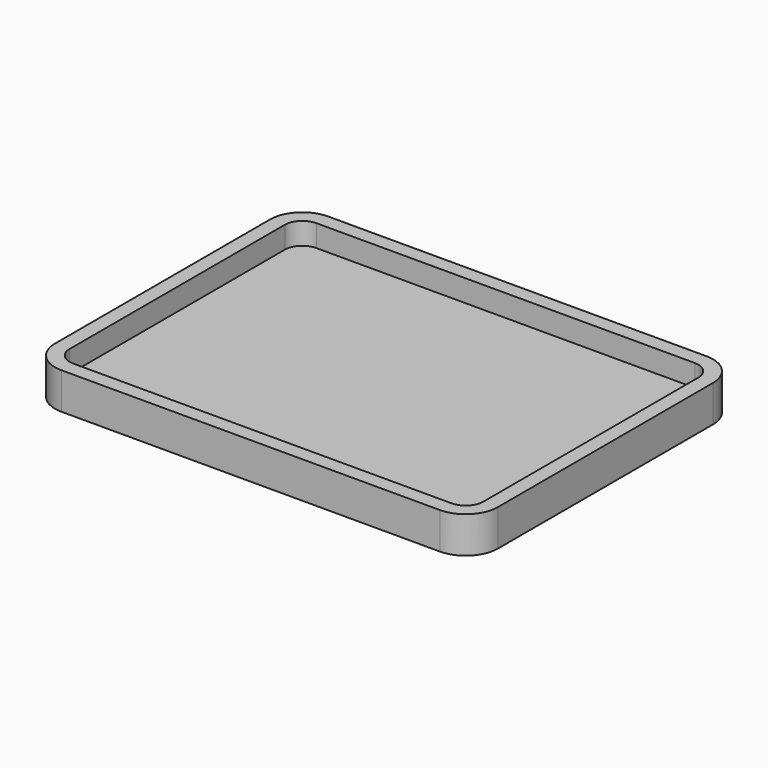
from build123d import *

# Parameters (mm, degrees)
F1_DEPTH = 25
F2_DEPTH = 15


with BuildPart() as f1:
    # F0 (on Top) → F1 (new body)
    with BuildSketch(Plane.XY):
        with BuildLine():
            Line((-129.5, -114), (129.5, -114))
            ThreePointArc((129.5, -114), (145.0563491861, -107.5563491861), (151.5, -92))
            Line((151.5, -92), (151.5, 92))
            ThreePointArc((151.5, 92), (145.0563491861, 107.5563491861), (129.5, 114))
            Line((129.5, 114), (-129.5, 114))
            ThreePointArc((-129.5, 114), (-145.0563491861, 107.5563491861), (-151.5, 92))
            Line((-151.5, 92), (-151.5, -92))
            ThreePointArc((-151.5, -92), (-145.0563491861, -107.5563491861), (-129.5, -114))
        make_face()
        with BuildLine():
            ThreePointArc((141.5, -92), (137.9852813742, -100.4852813742), (129.5, -104))
            Line((129.5, -104), (-129.5, -104))
            ThreePointArc((-129.5, -104), (-137.9852813742, -100.4852813742), (-141.5, -92))
            Line((-141.5, -92), (-141.5, 92))
            ThreePointArc((-141.5, 92), (-137.9852813742, 100.4852813742), (-129.5, 104))
            Line((-129.5, 104), (129.5, 104))
            ThreePointArc((129.5, 104), (137.9852813742, 100.4852813742), (141.5, 92))
            Line((141.5, 92), (141.5, -92))
        make_face(mode=Mode.SUBTRACT)
        with BuildLine():
            Line((-129.5, -104), (129.5, -104))
            ThreePointArc((129.5, -104), (137.9852813742, -100.4852813742), (141.5, -92))
            Line((141.5, -92), (141.5, 92))
            ThreePointArc((141.5, 92), (137.9852813742, 100.4852813742), (129.5, 104))
            Line((129.5, 104), (-129.5, 104))
            ThreePointArc((-129.5, 104), (-137.9852813742, 100.4852813742), (-141.5, 92))
            Line((-141.5, 92), (-141.5, -92))
            ThreePointArc((-141.5, -92), (-137.9852813742, -100.4852813742), (-129.5, -104))
        make_face()
    extrude(amount=-F1_DEPTH)

    # F0 (on Top) → F2 (cut)
    with BuildSketch(Plane.XY):
        with BuildLine():
            Line((-129.5, -104), (129.5, -104))
            ThreePointArc((129.5, -104), (137.9852813742, -100.4852813742), (141.5, -92))
            Line((141.5, -92), (141.5, 92))
            ThreePointArc((141.5, 92), (137.9852813742, 100.4852813742), (129.5, 104))
            Line((129.5, 104), (-129.5, 104))
            ThreePointArc((-129.5, 104), (-137.9852813742, 100.4852813742), (-141.5, 92))
            Line((-141.5, 92), (-141.5, -92))
            ThreePointArc((-141.5, -92), (-137.9852813742, -100.4852813742), (-129.5, -104))
        make_face()
    extrude(amount=-F2_DEPTH, mode=Mode.SUBTRACT)


solid = f1.part
